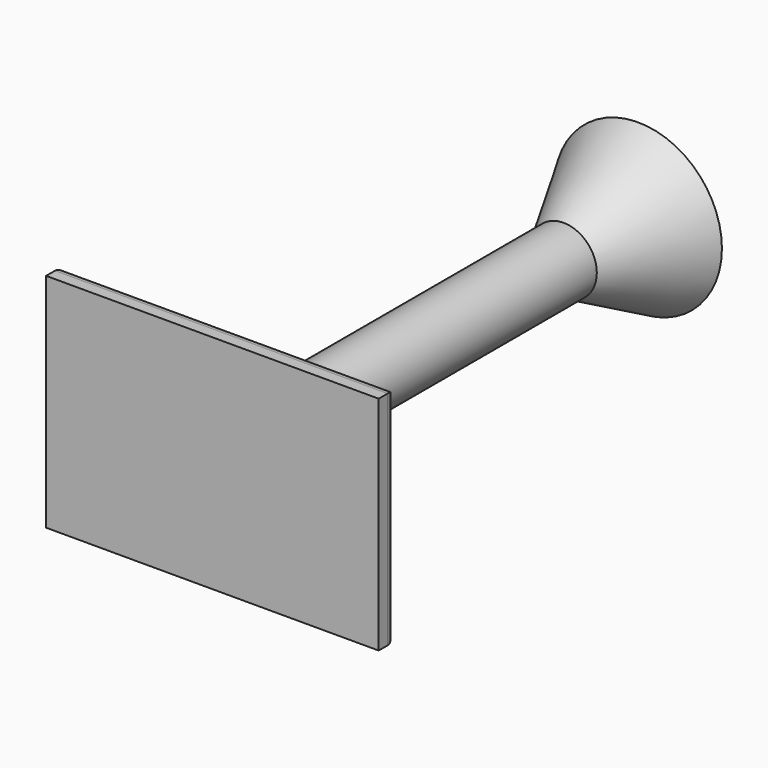
from build123d import *

# Parameters (mm, degrees)
SKETCH014_W  = 30
SKETCH014_H  = 20
PAD007_DEPTH = 2
FILLET_R     = 4
FILLET001_R  = 1


with BuildPart() as part:
    # Sketch013 → Revolution (revolve)
    with BuildSketch(Plane.XY):
        Polygon((0, 0), (3, 0), (3, 1.633374), (3, 7.404287), (3, 39.593973), (7.559051, 48), (0, 48), align=None)
    revolve(axis=Axis((0, 0, 0), (0, 1, 0)))

    # Sketch014 (on Face2 of Revolution) → Pad007 (new body)
    with BuildSketch(Plane.XZ):
        Rectangle(SKETCH014_W, SKETCH014_H)
    extrude(amount=-PAD007_DEPTH)

    # Fillet
    fillet_edges = [part.edges().sort_by_distance(p)[0] for p in [
        (-3, 2, 0),
    ]]
    fillet(fillet_edges, radius=FILLET_R)

    # Fillet001
    fillet001_edges = [part.edges().sort_by_distance(p)[0] for p in [
        (-15, 2, 0),
        (0, 2, 10),
        (0, 2, -10),
        (15, 2, 0),
    ]]
    fillet(fillet001_edges, radius=FILLET001_R)


solid = part.part
